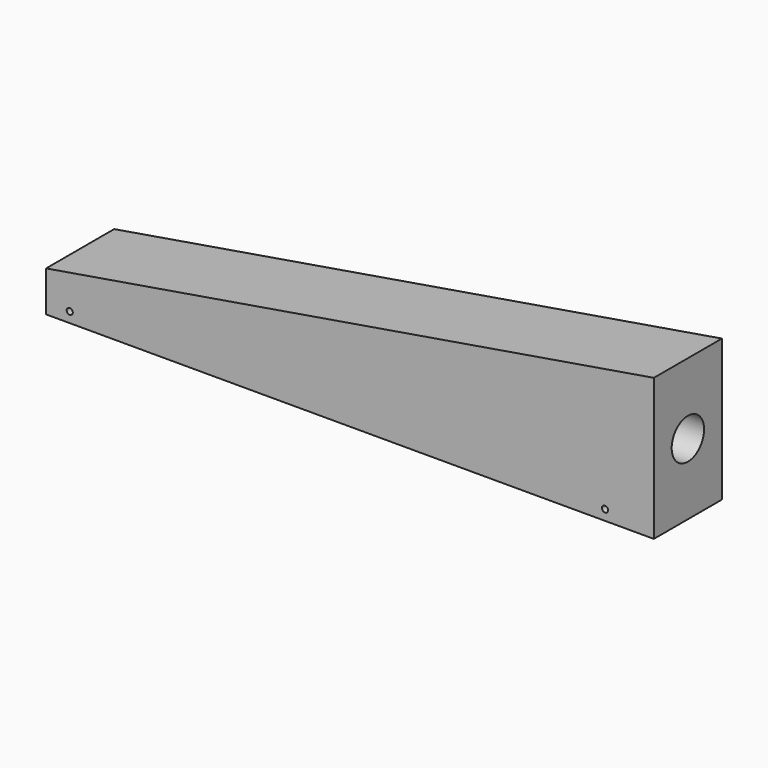
from build123d import *

# Parameters (mm, degrees)
F1_DEPTH = 42
F2_R     = 10
F3_DEPTH = 55
F4_R     = 1.5
F5_DEPTH = 197.5


with BuildPart() as f1:
    # F0 (on Front) → F1 (new body)
    with BuildSketch(Plane.XZ):
        Polygon((-127.40964, 0), (172.59036, 0), (172.59036, 70), (-127.40964, 20), align=None)
    extrude(amount=-F1_DEPTH)

    # F2 (on face) → F3 (cut)
    with BuildSketch(Plane.YZ.offset(172.59036)):
        with Locations((21, 35)):
            Circle(F2_R)
    extrude(amount=-F3_DEPTH, mode=Mode.SUBTRACT)

    # F4 (on face) → F5 (cut)
    with BuildSketch(Plane.XZ):
        with Locations((-115.736268, 5.088853)):
            Circle(F4_R)
        with Locations((148.481086, 5.088853)):
            Circle(F4_R)
    extrude(amount=-F5_DEPTH, mode=Mode.SUBTRACT)


solid = f1.part
